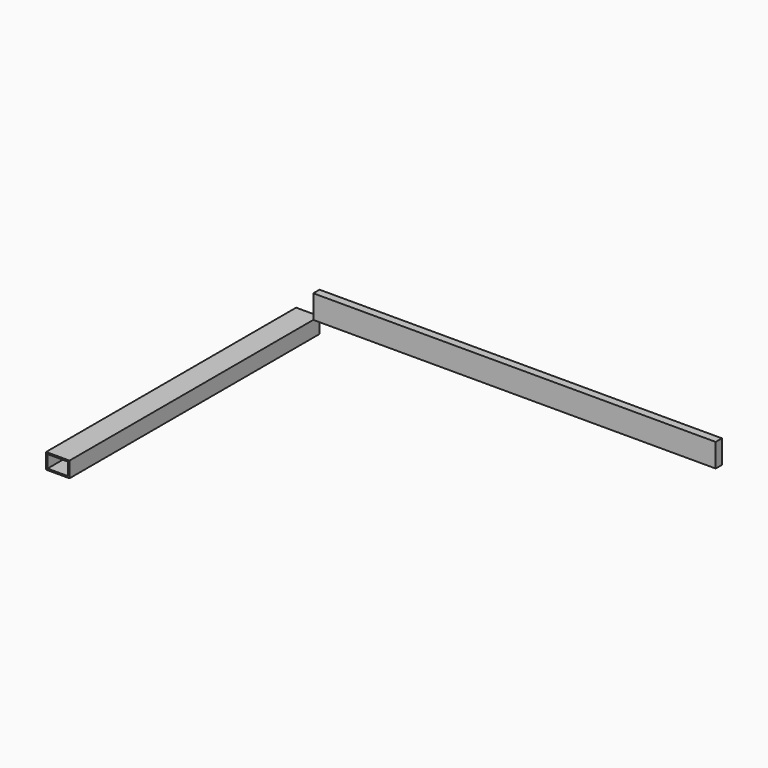
from build123d import *

# Parameters (mm, degrees)
F0_W     = 152.4
F0_H     = 101.6
F0_W_2   = 133.35
F0_H_2   = 82.55
F1_DEPTH = 2032
F2_W     = 50.8
F2_H     = 152.4
F3_DEPTH = 2616.2


with BuildPart() as f1:
    # F0 (on Front) → F1 (new body)
    with BuildSketch(Plane.XZ):
        with Locations((-149.739227, 37.040798)):
            Rectangle(F0_W, F0_H)
        with Locations((-149.739227, 37.040798)):
            Rectangle(F0_W_2, F0_H_2, mode=Mode.SUBTRACT)
    extrude(amount=F1_DEPTH)


with BuildPart() as f3:
    # F2 (on face) → F3 (new body)
    with BuildSketch(Plane.YZ.offset(-73.539227)):
        with Locations((-25.4, 164.040798)):
            Rectangle(F2_W, F2_H)
    extrude(amount=F3_DEPTH)


solid = Compound([f1.part, f3.part])
